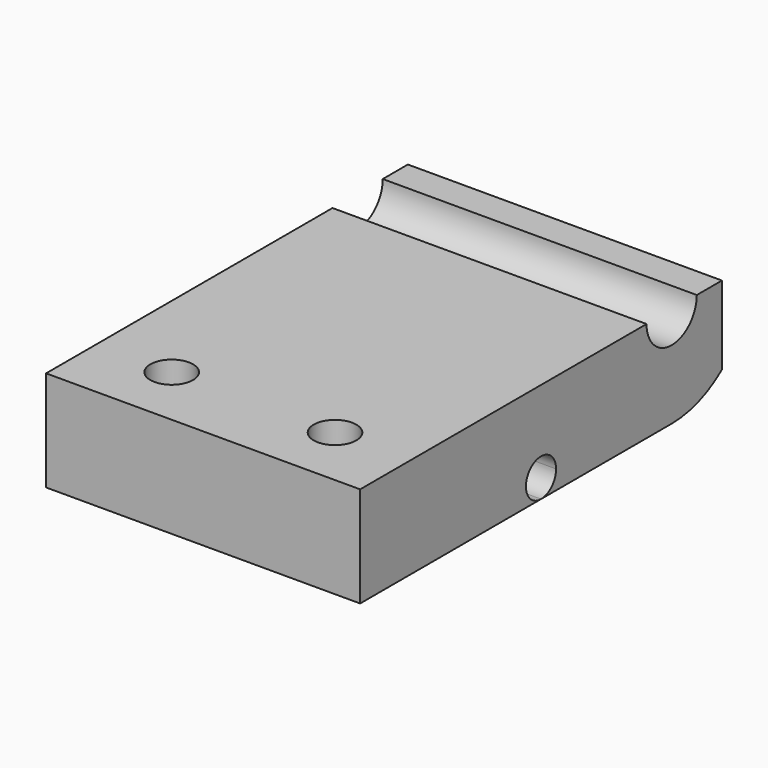
from build123d import *

# Parameters (mm, degrees)
SKETCH_R          = 1.7
PAD_DEPTH         = 8
SKETCH001_R       = 1.5
POCKET_DEPTH      = 12.501
POCKET_DEPTH_BACK = -12.501
SKETCH002_R       = 3
POCKET001_DEPTH   = 2.25
SKETCH003_R       = 6
SKETCH003_R_2     = 3
POCKET002_DEPTH   = 4
SKETCH004_R       = 2.5
POCKET003_DEPTH   = 25.001
POCKET004_DEPTH   = 25.001
CHAMFER_SIZE      = 1
CHAMFER001_SIZE   = 1.5


with BuildPart() as part:
    # Sketch → Pad (new body)
    with BuildSketch(Plane.XY):
        Polygon((-12.5, 18), (-12.5, 0), (-12.5, -18), (0, -18), (12.5, -18), (12.5, 0), (12.5, 18), (0, 18), align=None)
        with Locations((6.5, -13)):
            Circle(SKETCH_R, mode=Mode.SUBTRACT)
        with Locations((-6.5, -13)):
            Circle(SKETCH_R, mode=Mode.SUBTRACT)
    extrude(amount=PAD_DEPTH)

    # Sketch001 → Pocket (cut, two sides)
    with BuildSketch(Plane.YZ) as pocket_sk:
        with Locations((0, 1.5)):
            Circle(SKETCH001_R)
    extrude(amount=-POCKET_DEPTH, mode=Mode.SUBTRACT)
    extrude(pocket_sk.sketch, amount=-POCKET_DEPTH_BACK, mode=Mode.SUBTRACT)

    # Sketch002 → Pocket001 (cut, symmetric)
    with BuildSketch(Plane.YZ):
        with Locations((0, 1.5)):
            Circle(SKETCH002_R)
    extrude(amount=POCKET001_DEPTH, both=True, mode=Mode.SUBTRACT)

    # Sketch003 → Pocket002 (cut, symmetric)
    with BuildSketch(Plane.YZ):
        with Locations((0, 1.5)):
            Circle(SKETCH003_R)
        with Locations((0, 1.5)):
            Circle(SKETCH003_R_2, mode=Mode.SUBTRACT)
    extrude(amount=POCKET002_DEPTH, both=True, mode=Mode.SUBTRACT)

    # Sketch004 (on DatumPlane) → Pocket003 (cut, through all)
    with BuildSketch(Plane(origin=(-12.5, 13, 8), x_dir=(0, -1, 0), z_dir=(-1, 0, 0))):
        Circle(SKETCH004_R)
    extrude(amount=-POCKET003_DEPTH, mode=Mode.SUBTRACT)

    # Sketch005 (on DatumPlane) → Pocket004 (cut, through all)
    with BuildSketch(Plane(origin=(-12.5, 13, 0), x_dir=(0, -1, 0), z_dir=(-1, 0, 0))):
        with BuildLine():
            ThreePointArc((-8, 8), (-5.656854, 2.343146), (0, 0))
            Line((0, 0), (0, -10))
            ThreePointArc((-18, 8), (-12.727922, -4.727922), (0, -10))
            Line((-8, 8), (-18, 8))
        make_face()
    extrude(amount=-POCKET004_DEPTH, mode=Mode.SUBTRACT)

    # Chamfer
    chamfer_edges = [part.edges().sort_by_distance(p)[0] for p in [
        (-4, -0.776457, 4.397777),
        (4, -0.776457, 4.397777),
    ]]
    chamfer(chamfer_edges, length=CHAMFER_SIZE)

    # Chamfer001
    chamfer001_edges = [part.edges().sort_by_distance(p)[0] for p in [
        (0, 5.809475, 0),
        (0, -5.809475, 0),
    ]]
    chamfer(chamfer001_edges, length=CHAMFER001_SIZE)


solid = part.part
